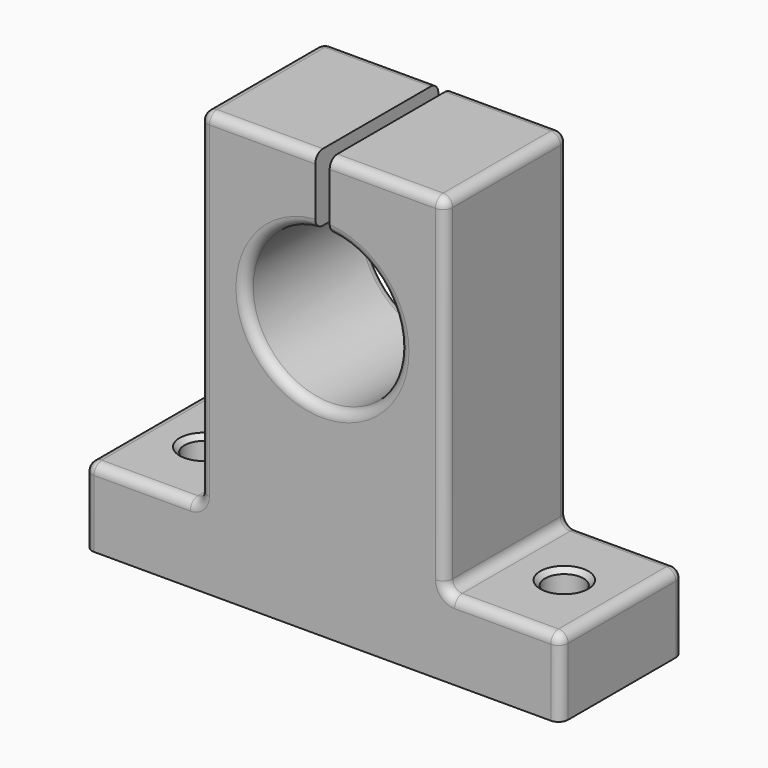
from build123d import *

# Parameters (mm, degrees)
F1_DEPTH       = 8
F3_D           = 4
F3_CSINK_D     = 5
F3_CSINK_ANGLE = 90
F4_R           = 1


with BuildPart() as f1:
    # F0 (on Front) → F1 (new body, symmetric)
    with BuildSketch(Plane.XZ):
        with BuildLine():
            Line((-24.75, -5.63766), (24.75, -5.63766))
            Line((24.75, -5.63766), (24.75, 2.36234))
            Line((24.75, 2.36234), (12.75, 2.36234))
            Line((12.75, 2.36234), (12.75, 38.36234))
            Line((12.75, 38.36234), (0.75, 38.36234))
            Line((0.75, 38.36234), (0.75, 31.327106))
            ThreePointArc((0.75, 31.327106), (0, 15.36234), (-0.75, 31.327106))
            Line((-0.75, 31.327106), (-0.75, 38.36234))
            Line((-0.75, 38.36234), (-12.75, 38.36234))
            Line((-12.75, 38.36234), (-12.75, 2.36234))
            Line((-12.75, 2.36234), (-24.75, 2.36234))
            Line((-24.75, 2.36234), (-24.75, -5.63766))
        make_face()
    extrude(amount=F1_DEPTH, both=True)

    # F3 (through all)
    with Locations(Plane.XY.offset(2.36234)):
        with Locations((18.75, 0), (-18.75, 0)):
            CounterSinkHole(F3_D / 2, F3_CSINK_D / 2, counter_sink_angle=F3_CSINK_ANGLE)

    # F4
    f4_edges = [f1.edges().sort_by_distance(p)[0] for p in [
        (-12.75, -8, 20.36234),
        (-18.75, -8, 2.36234),
        (-24.75, -8, -1.63766),
        (-6.75, -8, 38.36234),
        (6.75, -8, 38.36234),
        (12.75, -8, 20.36234),
        (18.75, -8, 2.36234),
        (24.75, -8, -1.63766),
        (0, -8, 15.36234),
        (24.75, 8, -1.63766),
        (18.75, 8, 2.36234),
        (12.75, 8, 20.36234),
        (6.75, 8, 38.36234),
        (-6.75, 8, 38.36234),
        (-12.75, 8, 20.36234),
        (-18.75, 8, 2.36234),
        (-24.75, 8, -1.63766),
        (0, 8, 15.36234),
        (12.75, 0, 2.36234),
        (24.75, 0, 2.36234),
        (12.75, 0, 38.36234),
        (-24.75, 0, 2.36234),
        (-12.75, 0, 2.36234),
        (-12.75, 0, 38.36234),
    ]]
    fillet(f4_edges, radius=F4_R)


solid = f1.part
